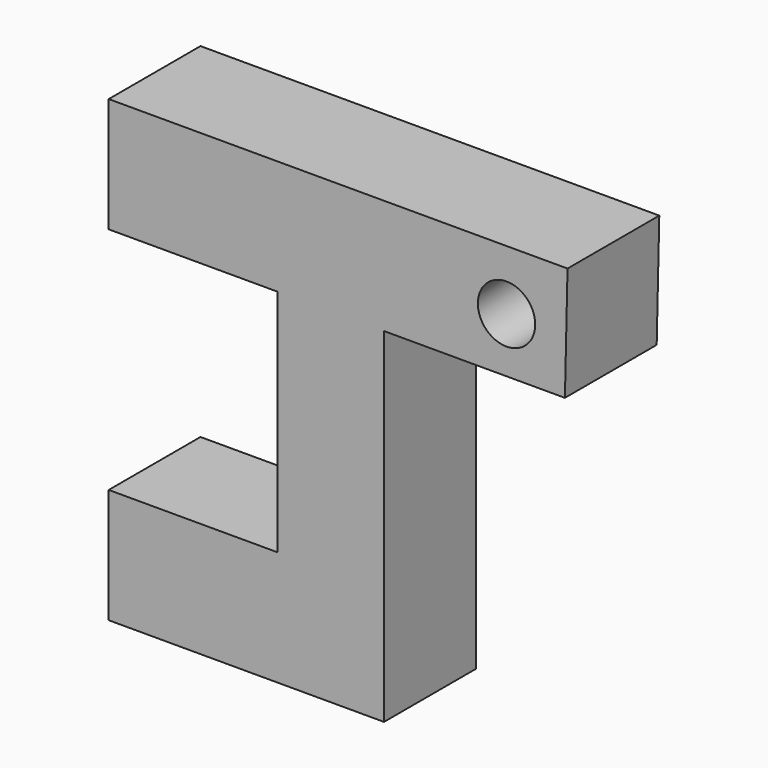
from build123d import *

# Parameters (mm, degrees)
F0_W     = 25.4
F0_H     = 25.4
F1_DEPTH = 6.35
F2_W     = 9.33873
F2_H     = 12.7
F3_DEPTH = 25.4
F4_R     = 1.5875
F5_DEPTH = 25.4


with BuildPart() as f1:
    # F0 (on Front) → F1 (new body)
    with BuildSketch(Plane.XZ):
        with Locations((12.7, 12.7)):
            Rectangle(F0_W, F0_H)
    extrude(amount=F1_DEPTH)

    # F2 (on face) → F3 (cut)
    with BuildSketch(Plane.XZ.offset(6.35)):
        with Locations((4.669365, 12.7)):
            Rectangle(F2_W, F2_H)
        Polygon((25.4, 0), (25.4, 25.4), (25.255403, 19.05), (15.24, 19.05), (15.24, 0), align=None)
    extrude(amount=-F3_DEPTH, mode=Mode.SUBTRACT)

    # F4 (on face) → F5 (cut)
    with BuildSketch(Plane.XZ.offset(6.35)):
        with Locations((22.022767, 22.086186)):
            Circle(F4_R)
    extrude(amount=-F5_DEPTH, mode=Mode.SUBTRACT)


solid = f1.part
